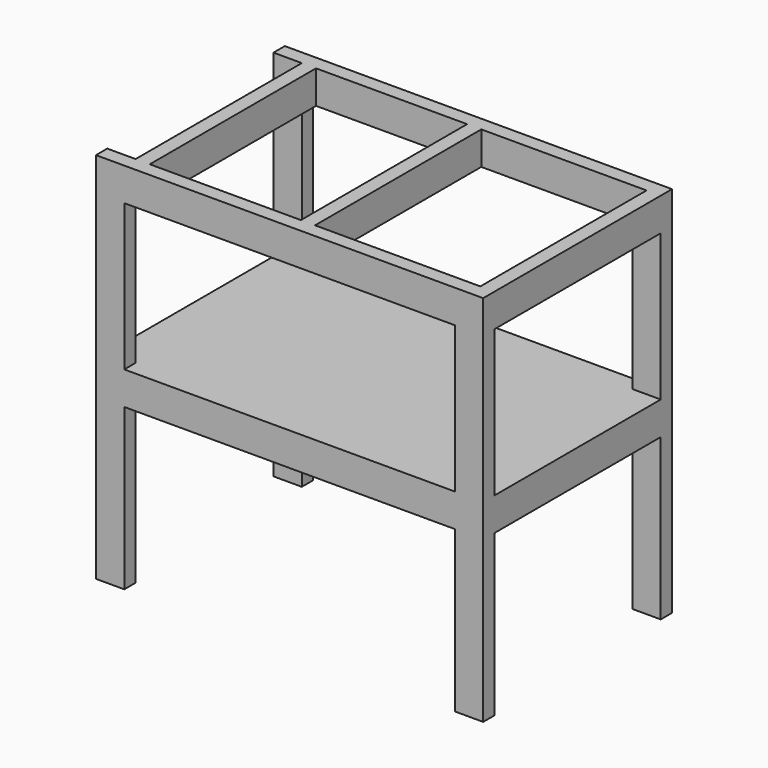
from build123d import *

# Parameters (mm, degrees)
SKETCH_W     = 406.4
SKETCH_H     = 558.8
SKETCH_W_2   = 444.5
PAD_DEPTH    = 88.9
SKETCH002_W  = 76.2
SKETCH002_H  = 38.1
PAD003_DEPTH = 914.4
SKETCH001_W  = 38.1
SKETCH001_H  = 558.8
PAD004_DEPTH = 76.2
SKETCH003_W  = 1041.4
SKETCH003_H  = 635
PAD005_DEPTH = 12.7


with BuildPart() as part:
    # Sketch → Pad (new body)
    with BuildSketch(Plane.XY):
        Polygon((-520.7, 317.5), (-520.7, 279.4), (-444.5, 279.4), (-444.5, -279.4), (-520.7, -279.4), (-520.7, -317.5), (520.7, -317.5), (520.7, 317.5), align=None)
        with Locations((-203.2, 0)):
            Rectangle(SKETCH_W, SKETCH_H, mode=Mode.SUBTRACT)
        with Locations((260.35, 0)):
            Rectangle(SKETCH_W_2, SKETCH_H, mode=Mode.SUBTRACT)
    extrude(amount=PAD_DEPTH)

    # Sketch002 → Pad003 (join)
    with BuildSketch(Plane.XY):
        with Locations((-482.6, 298.45)):
            Rectangle(SKETCH002_W, SKETCH002_H)
        with Locations((482.6, 298.45)):
            Rectangle(SKETCH002_W, SKETCH002_H)
        with Locations((482.6, -298.45)):
            Rectangle(SKETCH002_W, SKETCH002_H)
        with Locations((-482.6, -298.45)):
            Rectangle(SKETCH002_W, SKETCH002_H)
    extrude(amount=-PAD003_DEPTH)

    # Sketch001 → Pad004 (join)
    with BuildSketch(Plane.XY.offset(-406.4)):
        Polygon((-444.5, 279.4), (-19.05, 279.4), (-19.05, -279.4), (-444.5, -279.4), (-444.5, -317.5), (444.5, -317.5), (444.5, -279.4), (19.05, -279.4), (19.05, 279.4), (444.5, 279.4), (444.5, 317.5), (-444.5, 317.5), align=None)
        with Locations((-501.65, 0)):
            Rectangle(SKETCH001_W, SKETCH001_H)
        with Locations((501.65, 0)):
            Rectangle(SKETCH001_W, SKETCH001_H)
    extrude(amount=-PAD004_DEPTH)

    # Sketch003 → Pad005 (join)
    with BuildSketch(Plane.XY.offset(-406.4)):
        Rectangle(SKETCH003_W, SKETCH003_H)
    extrude(amount=PAD005_DEPTH)


solid = part.part
